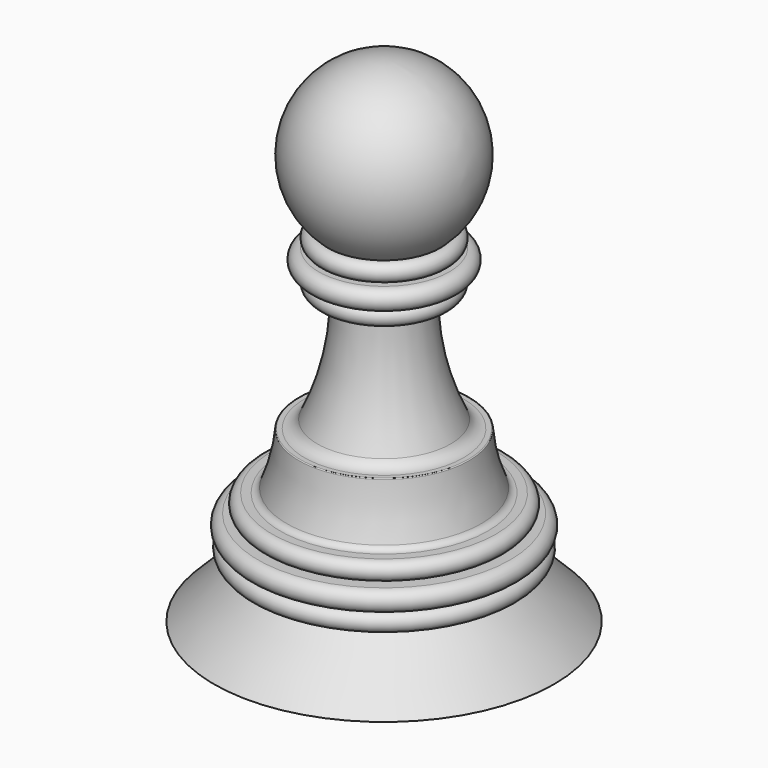
from build123d import *


with BuildPart() as f1:
    # F0 (on Front) → F1 (revolve)
    with BuildSketch(Plane.XZ):
        with BuildLine():
            Line((76.2, 0), (50.8, 25.4))
            Line((50.8, 25.4), (54.864, 25.4))
            ThreePointArc((54.864, 25.4), (59.76686, 28.62514), (56.541721, 33.528))
            ThreePointArc((56.541721, 33.528), (60.633856, 38.1), (56.541721, 42.672))
            Line((56.541721, 42.672), (50.210223, 42.672))
            ThreePointArc((50.210223, 42.672), (54.274223, 46.736), (50.210223, 50.8))
            Line((50.210223, 50.8), (46.546231, 50.8))
            ThreePointArc((46.546231, 50.8), (44.778113, 51.337883), (43.609076, 52.769285))
            ThreePointArc((43.609076, 52.769285), (39.967662, 64.079183), (38.128669, 75.817659))
            ThreePointArc((38.128669, 75.817659), (37.996994, 76.089747), (37.715544, 76.2))
            Line((37.715544, 76.2), (35.658392, 76.2))
            ThreePointArc((35.658392, 76.2), (32.279974, 77.17331), (29.937225, 79.794867))
            ThreePointArc((29.937225, 79.794867), (21.507757, 104.339686), (19.05, 130.175))
            Line((19.05, 130.175), (25.1968, 130.175))
            ThreePointArc((25.1968, 130.175), (29.2608, 134.239), (25.1968, 138.303))
            Line((25.1968, 138.303), (29.2608, 138.303))
            ThreePointArc((29.2608, 138.303), (33.8328, 142.875), (29.2608, 147.447))
            Line((29.2608, 147.447), (25.1968, 147.447))
            ThreePointArc((25.1968, 147.447), (29.2608, 151.50901), (25.200779, 155.574998))
            ThreePointArc((25.200779, 155.574998), (35.639287, 197.620383), (0, 222.25))
            Line((0, 222.25), (0, 0))
            Line((0, 0), (76.2, 0))
        make_face()
    revolve(axis=Axis((0, 0, 111.125), (0, 0, 1)))


solid = f1.part
